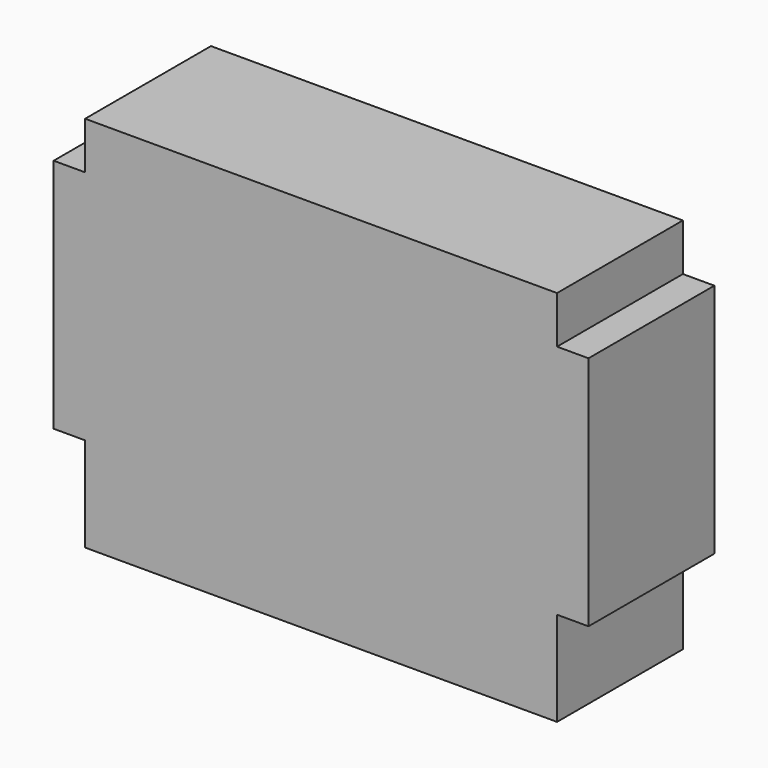
from build123d import *

# Parameters (mm, degrees)
F0_W     = 30
F0_H     = 10
F1_DEPTH = 6
F2_W     = 34
F2_H     = 10
F3_DEPTH = 15
F4_W     = 30
F4_H     = 10
F5_DEPTH = 3


with BuildPart() as f1:
    # F0 (on Top) → F1 (new body)
    with BuildSketch(Plane.XY):
        Rectangle(F0_W, F0_H)
    extrude(amount=F1_DEPTH)

    # F2 (on face) → F3 (join)
    with BuildSketch(Plane.XY.offset(6)):
        Rectangle(F2_W, F2_H)
    extrude(amount=F3_DEPTH)

    # F4 (on face) → F5 (join)
    with BuildSketch(Plane.XY.offset(21)):
        Rectangle(F4_W, F4_H)
    extrude(amount=F5_DEPTH)


solid = f1.part
